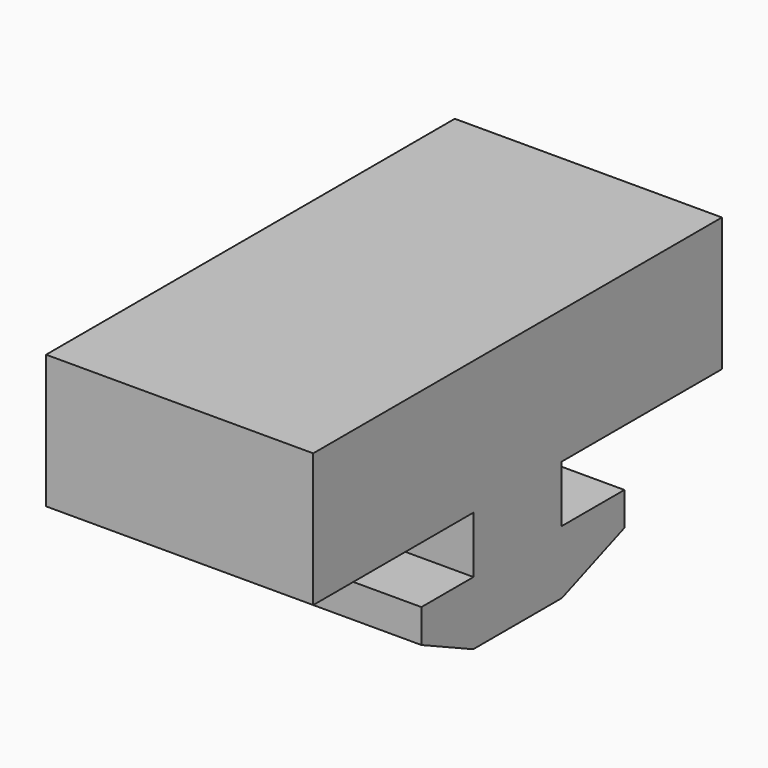
from build123d import *

# Parameters (mm, degrees)
F0_W     = 20
F0_H     = 38.25
F1_DEPTH = 10
F2_W     = 4.125
F2_H     = 4.25
F3_DEPTH = 20


with BuildPart() as f1:
    # F0 (on Top) → F1 (new body)
    with BuildSketch(Plane.XY):
        Rectangle(F0_W, F0_H)
    extrude(amount=F1_DEPTH)

    # F2 (on face) → F3 (join)
    with BuildSketch(Plane.YZ.offset(10)):
        with Locations((2.0625, -2.125)):
            Rectangle(F2_W, F2_H)
        with Locations((-2.0625, -2.125)):
            Rectangle(F2_W, F2_H)
        Polygon((4.125, -4.25), (0, -4.25), (0, -9), (4.15, -9), (10, -6.75), (10, -4.25), align=None)
        Polygon((0, -9), (0, -4.25), (-4.125, -4.25), (-9, -4.25), (-9, -6.75), (-4.15, -9), align=None)
    extrude(amount=-F3_DEPTH)


solid = f1.part
